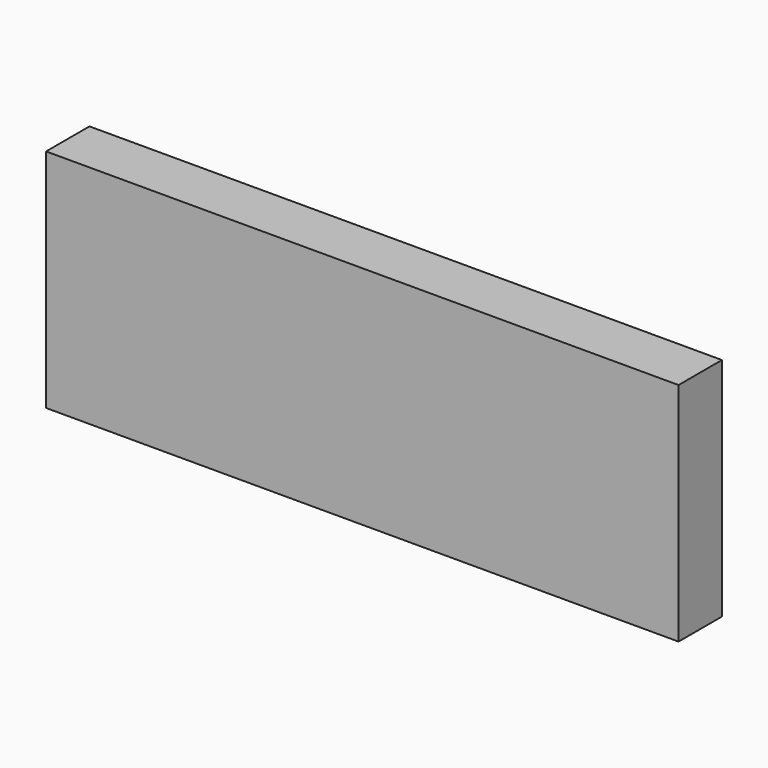
from build123d import *

# Parameters (mm, degrees)
SKETCH_W      = 140
SKETCH_H      = 12
EXTRUDE_DEPTH = 50


with BuildPart() as part:
    # Sketch → Extrude (new body)
    with BuildSketch(Plane.XY):
        Rectangle(SKETCH_W, SKETCH_H)
    extrude(amount=EXTRUDE_DEPTH)


solid = part.part
